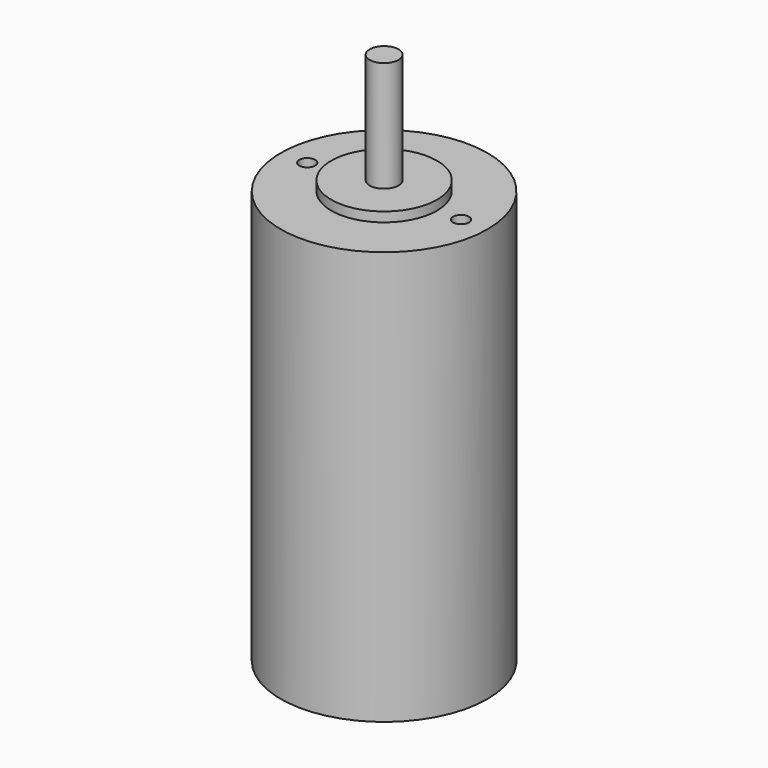
from build123d import *

# Parameters (mm, degrees)
F0_R     = 21.5
F1_DEPTH = 86
F2_R     = 11
F3_DEPTH = 2
F4_R     = 3
F5_DEPTH = 23
F7_D     = 3.3


with BuildPart() as f1:
    # F0 (on Top) → F1 (new body)
    with BuildSketch(Plane.XY):
        Circle(F0_R)
    extrude(amount=-F1_DEPTH)

    # F2 (on face) → F3 (join)
    with BuildSketch(Plane.XY):
        Circle(F2_R)
    extrude(amount=F3_DEPTH)

    # F4 (on face) → F5 (join)
    with BuildSketch(Plane.XY.offset(2)):
        Circle(F4_R)
    extrude(amount=F5_DEPTH)

    # F7 (through all)
    with Locations(Plane.XY):
        with Locations((-16, 0), (16, 0)):
            Hole(F7_D / 2)


solid = f1.part
